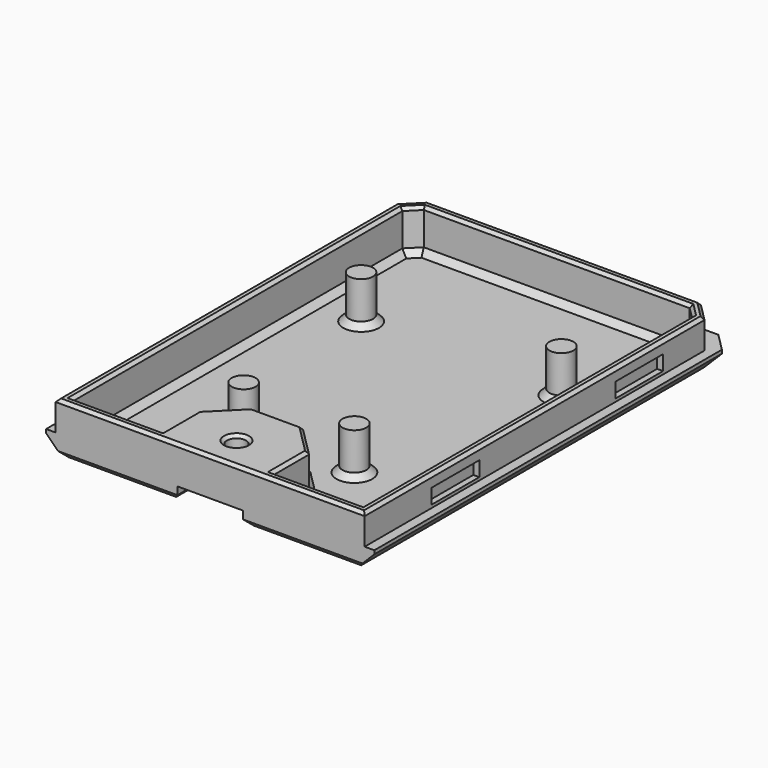
from build123d import *

# Parameters (mm, degrees)
SKETCH_W        = 55
SKETCH_H        = 75.8
PAD_DEPTH       = 3.6
SKETCH001_W     = 51.76
SKETCH001_H     = 74.18
PAD001_DEPTH    = 5
POCKET_DEPTH    = 7
SKETCH003_R     = 2
PAD002_DEPTH    = 7.25
SKETCH004_W     = 10
SKETCH004_H     = 2.5
POCKET001_DEPTH = 1
SKETCH005_W     = 10
SKETCH005_H     = 2.5
POCKET002_DEPTH = 1
POCKET003_DEPTH = 2.3
SKETCH007_R     = 1.6
POCKET004_DEPTH = 6.551
CHAMFER_SIZE    = 5
CHAMFER001_SIZE = 2
CHAMFER002_SIZE = 1
CHAMFER003_SIZE = 3
CHAMFER004_SIZE = 0.5
CHAMFER005_SIZE = 1
CHAMFER006_SIZE = 3
CHAMFER007_SIZE = 1
CHAMFER008_SIZE = 1


with BuildPart() as part:
    # Sketch → Pad (new body)
    with BuildSketch(Plane.XY):
        with Locations((27.5, 37.9)):
            Rectangle(SKETCH_W, SKETCH_H)
    extrude(amount=PAD_DEPTH)

    # Sketch001 → Pad001 (new body)
    with BuildSketch(Plane.XY.offset(3.6)):
        with Locations((27.5, 37.09)):
            Rectangle(SKETCH001_W, SKETCH001_H)
    extrude(amount=PAD001_DEPTH)

    # Sketch002 → Pocket (cut)
    with BuildSketch(Plane.XY.offset(8.6)):
        Polygon((18.22, 1.6), (3.22, 1.6), (3.22, 72.58), (51.78, 72.58), (51.78, 1.6), (36.78, 1.6), (36.78, 14.1), (18.22, 14.1), align=None)
    extrude(amount=-POCKET_DEPTH, mode=Mode.SUBTRACT)

    # Sketch003 → Pad002 (new body)
    with BuildSketch(Plane.XY.offset(1.6)):
        with Locations((10.72, 52.58)):
            Circle(SKETCH003_R)
        with Locations((44.28, 52.58)):
            Circle(SKETCH003_R)
        with Locations((18.22, 18.6)):
            Circle(SKETCH003_R)
        with Locations((36.78, 18.6)):
            Circle(SKETCH003_R)
    extrude(amount=PAD002_DEPTH)

    # Sketch004 → Pocket001 (cut)
    with BuildSketch(Plane.YZ.offset(53.38)):
        with Locations((19, 5.35)):
            Rectangle(SKETCH004_W, SKETCH004_H)
        with Locations((57.5, 5.35)):
            Rectangle(SKETCH004_W, SKETCH004_H)
    extrude(amount=-POCKET001_DEPTH, mode=Mode.SUBTRACT)

    # Sketch005 → Pocket002 (cut)
    with BuildSketch(Plane(origin=(1.62, 0, 0), x_dir=(0, -1, 0), z_dir=(-1, 0, 0))):
        with Locations((-57.5, 5.35)):
            Rectangle(SKETCH005_W, SKETCH005_H)
        with Locations((-19, 5.35)):
            Rectangle(SKETCH005_W, SKETCH005_H)
    extrude(amount=-POCKET002_DEPTH, mode=Mode.SUBTRACT)

    # Sketch006 → Pocket003 (cut)
    with BuildSketch(Plane(origin=(0, 0, 0), x_dir=(1, 0, 0), z_dir=(0, 0, -1))):
        with BuildLine():
            Line((22, 0), (33, 0))
            Line((33, 0), (33, -5.500002))
            ThreePointArc((27.500001, -11), (31.389087, -9.389088), (33, -5.500002))
            Line((27.500001, -11), (27.499999, -11))
            ThreePointArc((22, -5.500002), (23.610913, -9.389088), (27.499999, -11))
            Line((22, -5.500002), (22, 0))
        make_face()
    extrude(amount=-POCKET003_DEPTH, mode=Mode.SUBTRACT)

    # Sketch007 → Pocket004 (cut, through all)
    with BuildSketch(Plane(origin=(0, 0, 2.3), x_dir=(1, 0, 0), z_dir=(0, 0, -1))):
        with Locations((27.5, -5.5)):
            Circle(SKETCH007_R)
    extrude(amount=-POCKET004_DEPTH, mode=Mode.SUBTRACT)

    # Chamfer
    chamfer_edges = [part.edges().sort_by_distance(p)[0] for p in [
        (18.22, 14.1, 5.1),
        (36.78, 14.1, 5.1),
    ]]
    chamfer(chamfer_edges, length=CHAMFER_SIZE)

    # Chamfer001
    chamfer001_edges = [part.edges().sort_by_distance(p)[0] for p in [
        (3.22, 72.58, 5.1),
        (51.78, 72.58, 5.1),
    ]]
    chamfer(chamfer001_edges, length=CHAMFER001_SIZE)

    # Chamfer002
    chamfer002_edges = [part.edges().sort_by_distance(p)[0] for p in [
        (3.22, 36.09, 1.6),
        (4.22, 71.58, 1.6),
        (10.72, 1.6, 1.6),
        (27.5, 72.58, 1.6),
        (18.22, 5.35, 1.6),
        (50.78, 71.58, 1.6),
        (20.72, 11.6, 1.6),
        (51.78, 36.09, 1.6),
        (27.5, 14.1, 1.6),
        (44.28, 1.6, 1.6),
        (34.28, 11.6, 1.6),
        (36.78, 5.35, 1.6),
        (8.72, 52.58, 1.6),
        (42.28, 52.58, 1.6),
        (34.78, 18.6, 1.6),
        (16.22, 18.6, 1.6),
    ]]
    chamfer(chamfer002_edges, length=CHAMFER002_SIZE)

    # Chamfer003
    chamfer003_edges = [part.edges().sort_by_distance(p)[0] for p in [
        (53.38, 74.18, 6.1),
        (1.62, 74.18, 6.1),
    ]]
    chamfer(chamfer003_edges, length=CHAMFER003_SIZE)

    # Chamfer004
    chamfer004_edges = [part.edges().sort_by_distance(p)[0] for p in [
        (1.62, 35.59, 8.6),
        (3.12, 72.68, 8.6),
        (27.5, 0, 8.6),
        (27.5, 74.18, 8.6),
        (53.38, 35.59, 8.6),
        (51.88, 72.68, 8.6),
        (51.78, 36.09, 8.6),
        (50.78, 71.58, 8.6),
        (44.28, 1.6, 8.6),
        (27.5, 72.58, 8.6),
        (36.78, 5.35, 8.6),
        (4.22, 71.58, 8.6),
        (34.28, 11.6, 8.6),
        (3.22, 36.09, 8.6),
        (27.5, 14.1, 8.6),
        (10.72, 1.6, 8.6),
        (20.72, 11.6, 8.6),
        (18.22, 5.35, 8.6),
        (25.9, 5.5, 8.6),
    ]]
    chamfer(chamfer004_edges, length=CHAMFER004_SIZE)

    # Chamfer005
    chamfer005_edges = [part.edges().sort_by_distance(p)[0] for p in [
        (25.9, 5.5, 2.3),
    ]]
    chamfer(chamfer005_edges, length=CHAMFER005_SIZE)

    # Chamfer006
    chamfer006_edges = [part.edges().sort_by_distance(p)[0] for p in [
        (0, 75.8, 1.8),
        (55, 75.8, 1.8),
        (27.5, 75.8, 0),
        (55, 37.9, 0),
        (0, 37.9, 0),
    ]]
    chamfer(chamfer006_edges, length=CHAMFER006_SIZE)

    # Chamfer007
    chamfer007_edges = [part.edges().sort_by_distance(p)[0] for p in [
        (12.5, 0, 0),
        (42.5, 0, 0),
    ]]
    chamfer(chamfer007_edges, length=CHAMFER007_SIZE)

    # Chamfer008
    chamfer008_edges = [part.edges().sort_by_distance(p)[0] for p in [
        (23.610913, 9.389088, 0),
    ]]
    chamfer(chamfer008_edges, length=CHAMFER008_SIZE)


solid = part.part
